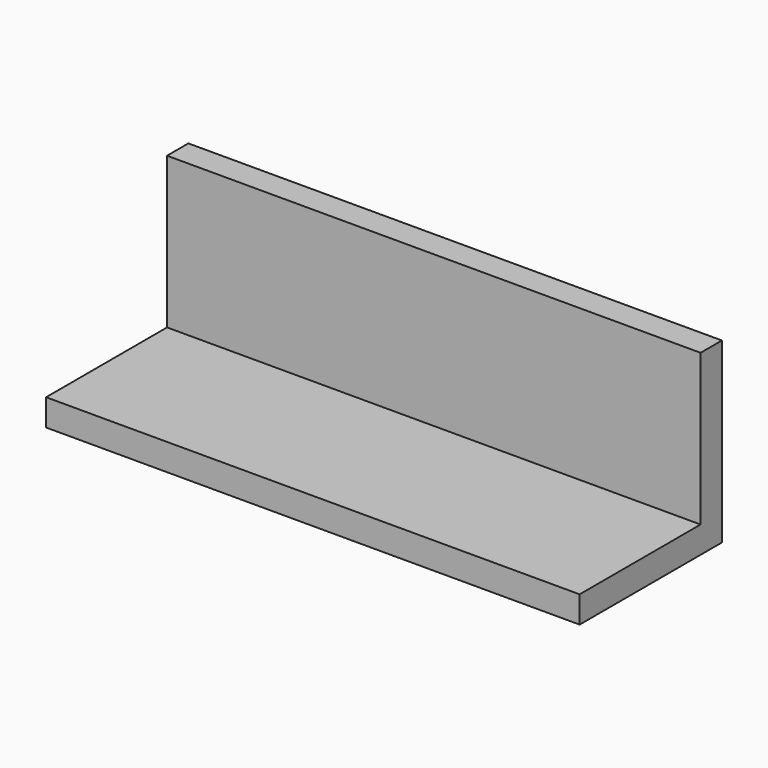
from build123d import *

# Parameters (mm, degrees)
F0_W     = 30
F0_H     = 1.5
F0_H_2   = 8.5
F1_DEPTH = 1.5
F2_DEPTH = 10


with BuildPart() as f1:
    # F0 (on Top) → F1 (new body)
    with BuildSketch(Plane.XY):
        with Locations((6.926514, 0.62533)):
            Rectangle(F0_W, F0_H)
        with Locations((6.926514, -4.37467)):
            Rectangle(F0_W, F0_H_2)
    extrude(amount=F1_DEPTH)

    # F0 (on Top) → F2 (join)
    with BuildSketch(Plane.XY):
        with Locations((6.926514, 0.62533)):
            Rectangle(F0_W, F0_H)
    extrude(amount=F2_DEPTH)


solid = f1.part
